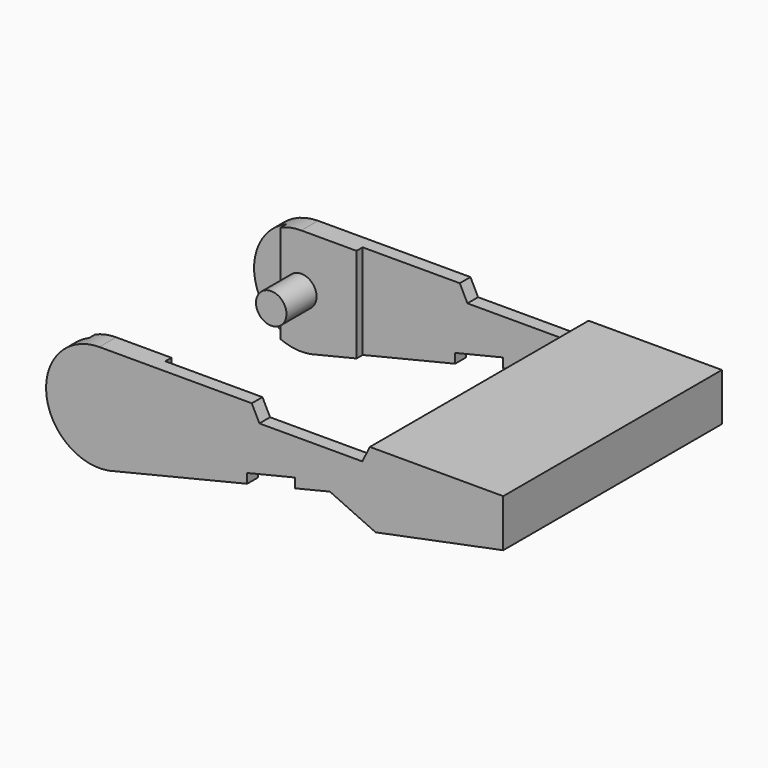
from build123d import *

# Parameters (mm, degrees)
CYLINDER_R        = 0.8
CYLINDER_DEPTH    = 2
CYLINDER001_R     = 0.8
CYLINDER001_DEPTH = 2
BOX004_W          = 0.3
BOX004_H          = 12.95
BOX004_DEPTH      = 3.2
BOX003_W          = 4.8
BOX003_H          = 12.45
BOX003_DEPTH      = 4.6
BOX001_W          = 1.7
BOX001_H          = 12.95
BOX001_DEPTH      = 10
BOX002_W          = 11.3
BOX002_H          = 12.95
BOX002_DEPTH      = 10
BOX_W             = 15.8
BOX_H             = 12.15
BOX_DEPTH         = 10
EXTRUDE_DEPTH     = 14.35


with BuildPart() as cylinder:
    # Cylinder → Cylinder (new body)
    with BuildSketch(Plane(origin=(2.8, -4.1, 2.8), x_dir=(1, 0, 0), z_dir=(0, -1, 0))):
        Circle(CYLINDER_R)
    extrude(amount=CYLINDER_DEPTH)


with BuildPart() as cylinder001:
    # Cylinder001 → Cylinder001 (new body)
    with BuildSketch(Plane(origin=(2.8, 6.1, 2.8), x_dir=(1, 0, 0), z_dir=(0, -1, 0))):
        Circle(CYLINDER001_R)
    extrude(amount=CYLINDER001_DEPTH)


with BuildPart() as cube004:
    # Box004 → Box004 (new body)
    with BuildSketch(Plane(origin=(17, -6.475, 0), x_dir=(1, 0, 0), z_dir=(0, 0, 1))):
        with Locations((0.15, 6.475)):
            Rectangle(BOX004_W, BOX004_H)
    extrude(amount=BOX004_DEPTH)


with BuildPart() as compound001:
    # Box003 → Box003 (new body)
    with BuildSketch(Plane(origin=(18.2, -6.225, 0), x_dir=(1, 0, 0), z_dir=(0, 0, 1))):
        with Locations((2.4, 6.225)):
            Rectangle(BOX003_W, BOX003_H)
    extrude(amount=BOX003_DEPTH)

    # Compound001: union Cube004
    add(cube004.part)


with BuildPart() as cube001:
    # Box001 → Box001 (new body)
    with BuildSketch(Plane(origin=(0, -6.475, 0), x_dir=(1, 0, 0), z_dir=(0, 0, 1))):
        with Locations((0.85, 6.475)):
            Rectangle(BOX001_W, BOX001_H)
    extrude(amount=BOX001_DEPTH)


with BuildPart() as compound:
    # Box002 → Box002 (new body)
    with BuildSketch(Plane(origin=(5.7, -6.475, 0), x_dir=(1, 0, 0), z_dir=(0, 0, 1))):
        with Locations((5.65, 6.475)):
            Rectangle(BOX002_W, BOX002_H)
    extrude(amount=BOX002_DEPTH)

    # Compound: union Cube001
    add(cube001.part)


with BuildPart() as cube:
    # Box → Box (new body)
    with BuildSketch(Plane(origin=(0, -6.075, 0), x_dir=(1, 0, 0), z_dir=(0, 0, 1))):
        with Locations((7.9, 6.075)):
            Rectangle(BOX_W, BOX_H)
    extrude(amount=BOX_DEPTH)


with BuildPart() as fusion:
    # Sketch → Extrude (new body)
    with BuildSketch(Plane.XZ):
        with BuildLine():
            ThreePointArc((2.8, 5.6), (0.010655, 2.555964), (3.286215, 0.042538))
            Line((3.286215, 0.042538), (10.556406, 1.8))
            Line((10.556406, 1.8), (10.556406, 2.3))
            Line((10.556406, 2.3), (13.056406, 2.904338))
            Line((13.056406, 2.404338), (13.056406, 2.904338))
            Line((13.056406, 2.404338), (14.9, 2.85))
            Line((14.9, 2.85), (17.3, 1.75))
            Line((17.3, 1.75), (24, 3.1))
            Line((24, 5.6), (24, 3.1))
            Line((17, 5.6), (24, 5.6))
            Line((16.6, 4.8), (17, 5.6))
            Line((11.2, 4.8), (16.6, 4.8))
            Line((11.2, 4.8), (10.8, 5.6))
            Line((2.8, 5.6), (10.8, 5.6))
        make_face()
    extrude(amount=EXTRUDE_DEPTH)


with BuildPart() as fusion_1:
    # Extrude placement: moved
    add(fusion.part.moved(Location((0, 7.175, 0))))

    # Cut: cut Cube
    add(cube.part, mode=Mode.SUBTRACT)

    # Cut001: cut Compound
    add(compound.part, mode=Mode.SUBTRACT)

    # Cut002: cut Compound001
    add(compound001.part, mode=Mode.SUBTRACT)

    # Fusion: union Cylinder, Cylinder001
    add(cylinder.part)
    add(cylinder001.part)


solid = fusion_1.part
